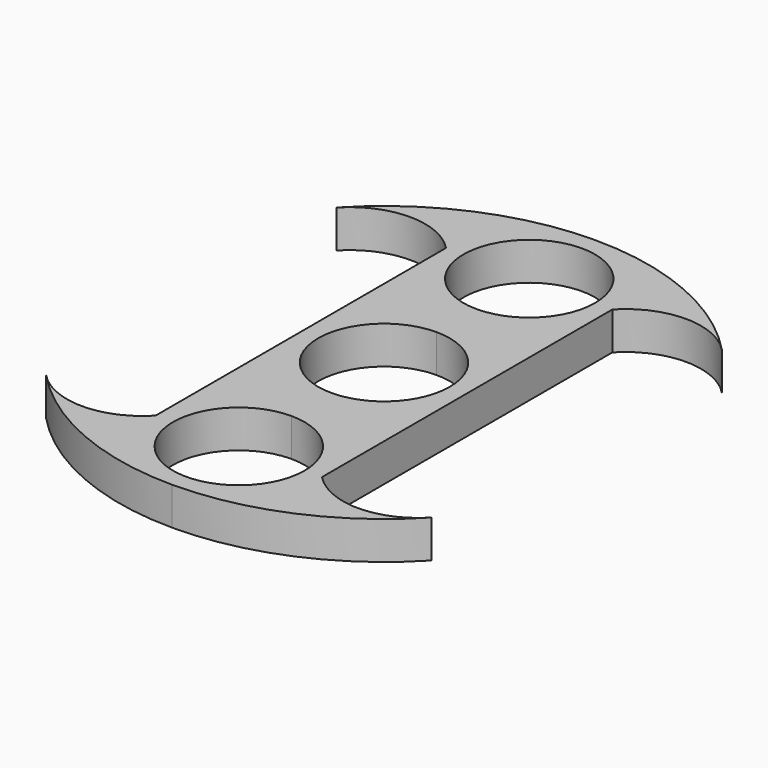
from build123d import *

# Parameters (mm, degrees)
F1_DEPTH = 6.35


with BuildPart() as f1:
    # F0 (on Top) → F1 (new body)
    with BuildSketch(Plane.XY):
        with BuildLine():
            ThreePointArc((0, 11.049), (7.8128228253, 7.8128228253), (11.049, 0))
            ThreePointArc((11.049, 0), (7.8128228253, -7.8128228253), (0, -11.049))
            Line((0, -11.049), (0, -13.97))
            ThreePointArc((0, -13.97), (9.8782817332, -9.8782817332), (13.97, 0))
            ThreePointArc((13.97, 0), (9.8782817332, 9.8782817332), (0, 13.97))
            Line((0, 13.97), (0, 11.049))
        make_face()
        with BuildLine():
            ThreePointArc((0, -11.049), (-11.049, 0), (0, 11.049))
            Line((0, 11.049), (0, 13.97))
            ThreePointArc((0, 13.97), (-9.8782817332, 9.8782817332), (-13.97, 0))
            ThreePointArc((-13.97, 0), (-9.8782817332, -9.8782817332), (0, -13.97))
            Line((0, -13.97), (0, -11.049))
        make_face()
        with BuildLine():
            Line((0, 16.51), (0, 13.97))
            ThreePointArc((0, 13.97), (9.8782817332, 9.8782817332), (13.97, 0))
            Line((13.97, 0), (13.97, 30.48))
            ThreePointArc((13.97, 30.48), (9.8782817332, 20.6017182668), (0, 16.51))
        make_face()
        with BuildLine():
            ThreePointArc((-13.97, 0), (-9.8782817332, 9.8782817332), (0, 13.97))
            Line((0, 13.97), (0, 16.51))
            ThreePointArc((0, 16.51), (-9.8782817332, 20.6017182668), (-13.97, 30.48))
            Line((-13.97, 30.48), (-13.97, 0))
        make_face()
        with BuildLine():
            Line((0, -16.51), (0, -13.97))
            ThreePointArc((0, -13.97), (-9.8782817332, -9.8782817332), (-13.97, 0))
            Line((-13.97, 0), (-13.97, -30.48))
            ThreePointArc((-13.97, -30.48), (-9.8782817332, -20.6017182668), (0, -16.51))
        make_face()
        with BuildLine():
            ThreePointArc((13.97, 0), (9.8782817332, -9.8782817332), (0, -13.97))
            Line((0, -13.97), (0, -16.51))
            ThreePointArc((0, -16.51), (9.8782817332, -20.6017182668), (13.97, -30.48))
            Line((13.97, -30.48), (13.97, 0))
        make_face()
        with BuildLine():
            ThreePointArc((-13.97, 30.48), (-9.8782817332, 20.6017182668), (0, 16.51))
            ThreePointArc((0, 16.51), (9.8782817332, 20.6017182668), (13.97, 30.48))
            ThreePointArc((13.97, 30.48), (9.8782817459, 40.3582817204), (3.6e-08, 44.45))
            ThreePointArc((3.6e-08, 44.45), (-9.8782817204, 40.3582817459), (-13.97, 30.48))
        make_face()
        with BuildLine():
            ThreePointArc((11.049, 30.48), (7.8128228253, 22.6671771747), (0, 19.431))
            ThreePointArc((0, 19.431), (-7.8128228253, 38.2928228253), (11.049, 30.48))
        make_face(mode=Mode.SUBTRACT)
        with BuildLine():
            ThreePointArc((13.97, -30.48), (9.8782817332, -20.6017182668), (0, -16.51))
            ThreePointArc((0, -16.51), (-9.8782817332, -20.6017182668), (-13.97, -30.48))
            ThreePointArc((-13.97, -30.48), (-9.8782817062, -40.3582817602), (7.63e-08, -44.45))
            ThreePointArc((7.63e-08, -44.45), (9.8782817602, -40.3582817062), (13.97, -30.48))
        make_face()
        with BuildLine():
            ThreePointArc((11.049, -30.48), (-7.8128228253, -38.2928228253), (0, -19.431))
            ThreePointArc((0, -19.431), (7.8128228253, -22.6671771747), (11.049, -30.48))
        make_face(mode=Mode.SUBTRACT)
        with BuildLine():
            ThreePointArc((3.6e-08, 44.45), (9.8782817459, 40.3582817204), (13.97, 30.48))
            ThreePointArc((13.97, 30.48), (23.1619287876, 34.4165277907), (32.3538575753, 30.48))
            ThreePointArc((32.3538575753, 30.48), (17.6205349119, 40.808323286), (3.6e-08, 44.45))
        make_face()
        with BuildLine():
            ThreePointArc((32.3538575753, -30.48), (23.1619287876, -34.4165277907), (13.97, -30.48))
            ThreePointArc((13.97, -30.48), (9.8782817602, -40.3582817062), (7.63e-08, -44.45))
            ThreePointArc((7.63e-08, -44.45), (17.6205349304, -40.808323278), (32.3538575753, -30.48))
        make_face()
        with BuildLine():
            ThreePointArc((7.63e-08, -44.45), (-9.8782817062, -40.3582817602), (-13.97, -30.48))
            ThreePointArc((-13.97, -30.48), (-23.1619287876, -34.4165277907), (-32.3538575753, -30.48))
            ThreePointArc((-32.3538575753, -30.48), (-17.6205348604, -40.8083233083), (7.63e-08, -44.45))
        make_face()
        with BuildLine():
            ThreePointArc((-32.3538575753, 30.48), (-23.1619287876, 34.4165277907), (-13.97, 30.48))
            ThreePointArc((-13.97, 30.48), (-9.8782817204, 40.3582817459), (3.6e-08, 44.45))
            ThreePointArc((3.6e-08, 44.45), (-17.6205348789, 40.8083233003), (-32.3538575753, 30.48))
        make_face()
    extrude(amount=F1_DEPTH)


solid = f1.part
